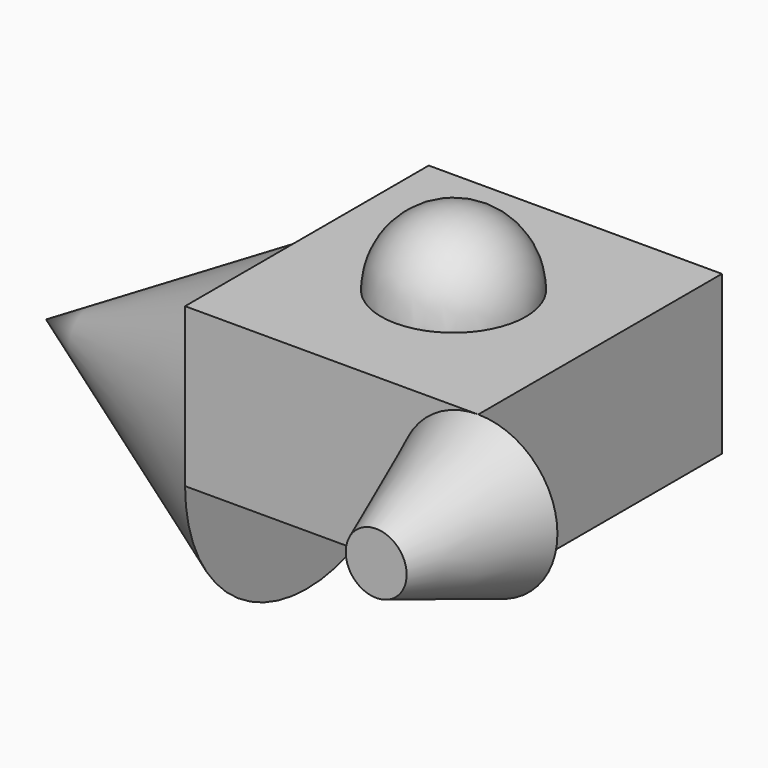
from build123d import *

# Parameters (mm, degrees)
F0_W     = 46.27084
F0_H     = 48.0736
F1_DEPTH = 12.5


with BuildPart() as f1:
    # F0 (on Top) → F1 (new body, symmetric)
    with BuildSketch(Plane.XY):
        Rectangle(F0_W, F0_H)
    extrude(amount=F1_DEPTH, both=True)

    # F2 (on face) → F3 (revolve)
    with BuildSketch(Plane.XY.offset(12.5)):
        with BuildLine():
            Line((0, 0), (-11.412725, 0))
            ThreePointArc((-11.412725, 0), (0, -11.412725), (11.412725, 0))
            Line((11.412725, 0), (0, 0))
        make_face()
    revolve(axis=Axis((0, 0, 12.5), (-1, 0, 0)))

    # F4 (on face) → F5 (revolve)
    with BuildSketch(Plane(origin=(0, 0, -12.5), x_dir=(1, 0, 0), z_dir=(0, 0, -1))):
        Polygon((-64.298436, 0), (-23.13542, -24.0368), (-23.13542, 0), align=None)
    revolve(axis=Axis((-43.716928, 0, -12.5), (1, 0, 0)))

    # F6 (on face) → F7 (revolve)
    with BuildSketch(Plane.YZ.offset(23.13542)):
        Polygon((-44.167623, -4.807361), (-24.0368, -12.5), (-24.0368, 0), (-44.167623, 0), align=None)
    revolve(axis=Axis((23.13542, -34.102212, 0), (0, 1, 0)))


solid = f1.part
